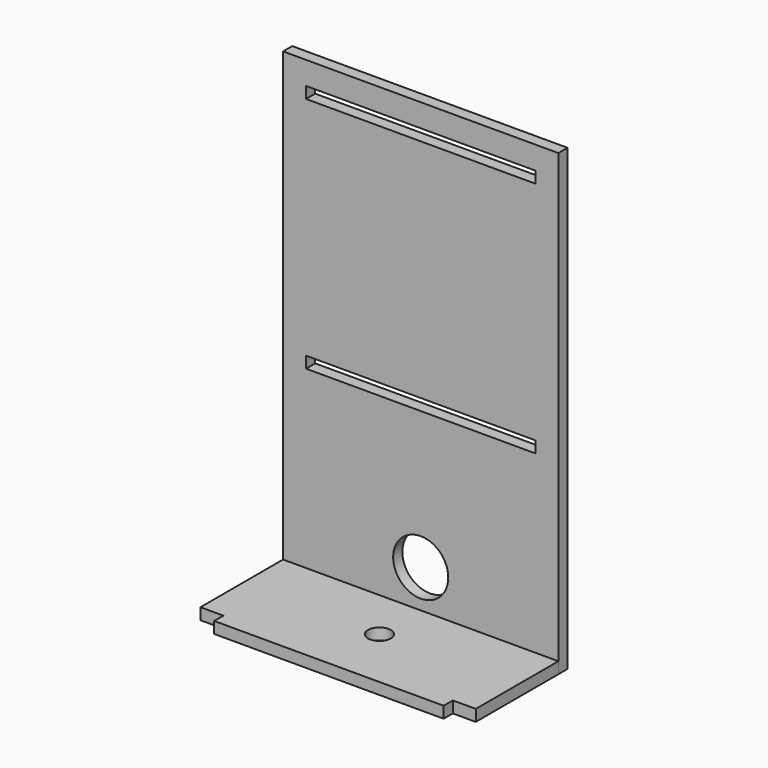
from build123d import *

# Parameters (mm, degrees)
F0_W     = 120
F0_H     = 200
F0_R     = 12
F0_W_2   = 100
F0_H_2   = 5
F1_DEPTH = 5
F2_R     = 5
F3_DEPTH = 5


with BuildPart() as f1:
    # F0 (on Front) → F1 (new body)
    with BuildSketch(Plane.XZ):
        with Locations((60, 100)):
            Rectangle(F0_W, F0_H)
        with Locations((60, 21.5)):
            Circle(F0_R, mode=Mode.SUBTRACT)
        with Locations((60, 84)):
            Rectangle(F0_W_2, F0_H_2, mode=Mode.SUBTRACT)
        with Locations((60, 187.5)):
            Rectangle(F0_W_2, F0_H_2, mode=Mode.SUBTRACT)
    extrude(amount=F1_DEPTH)


with BuildPart() as f3:
    # F2 (on Top) → F3 (new body)
    with BuildSketch(Plane.XY):
        Polygon((110, 0), (10, 0), (10, -5), (0, -5), (0, -50), (10, -50), (10, -55), (110, -55), (110, -50), (120, -50), (120, -5), (110, -5), align=None)
        with Locations((60, -27.5)):
            Circle(F2_R, mode=Mode.SUBTRACT)
    extrude(amount=F3_DEPTH)


solid = Compound([f1.part, f3.part])
